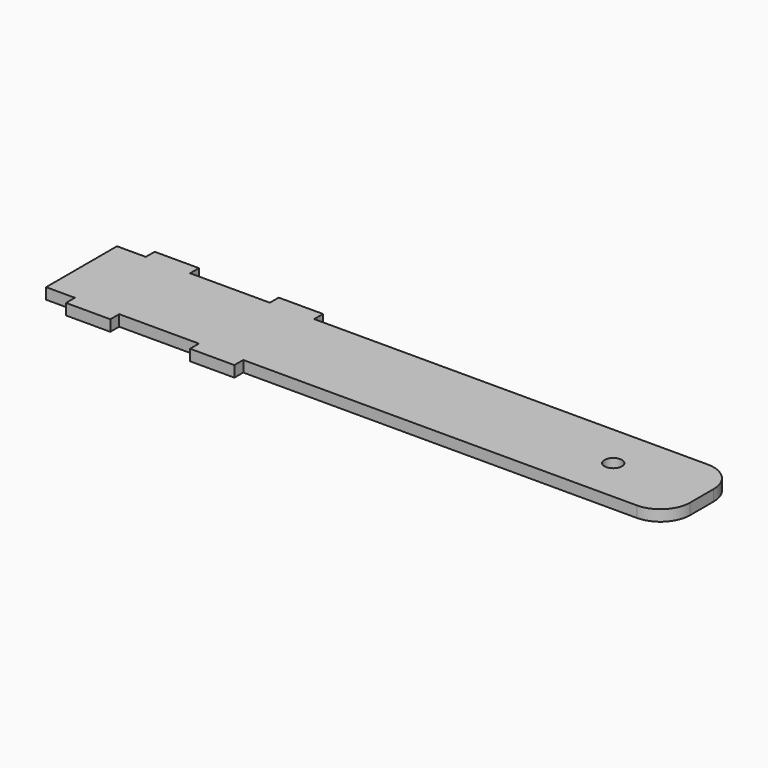
from build123d import *

# Parameters (mm, degrees)
F0_R     = 2.5
F1_DEPTH = 3.175


with BuildPart() as f1:
    # F0 (on Top) → F1 (new body)
    with BuildSketch(Plane.XY):
        with BuildLine():
            Line((-69.85, 12.7), (-76.2, 12.7))
            Line((-76.2, 12.7), (-76.2, -12.7))
            Line((-76.2, -12.7), (-69.85, -12.7))
            Line((-69.85, -12.7), (-67.945, -12.7))
            Line((-67.945, -12.7), (-67.945, -15.875))
            Line((-67.945, -15.875), (-55.245, -15.875))
            Line((-55.245, -15.875), (-55.245, -12.7))
            Line((-55.245, -12.7), (-53.34, -12.7))
            Line((-53.34, -12.7), (-34.29, -12.7))
            Line((-34.29, -12.7), (-32.385, -12.7))
            Line((-32.385, -12.7), (-32.385, -15.875))
            Line((-32.385, -15.875), (-19.685, -15.875))
            Line((-19.685, -15.875), (-19.685, -12.7))
            Line((-19.685, -12.7), (62.480263, -12.7))
            Line((62.480263, -12.7), (63.47136, -12.7))
            Line((63.47136, -12.7), (88.92864, -12.7))
            Line((88.92864, -12.7), (89.919737, -12.7))
            Line((89.919737, -12.7), (93.133333, -12.7))
            ThreePointArc((93.133333, -12.7), (99.120171, -10.220171), (101.6, -4.233333))
            Line((101.6, -4.233333), (101.6, 4.233333))
            ThreePointArc((101.6, 4.233333), (99.120171, 10.220171), (93.133333, 12.7))
            Line((93.133333, 12.7), (76.2, 12.7))
            Line((76.2, 12.7), (-19.685, 12.7))
            Line((-19.685, 12.7), (-19.685, 15.875))
            Line((-19.685, 15.875), (-32.385, 15.875))
            Line((-32.385, 15.875), (-32.385, 12.7))
            Line((-32.385, 12.7), (-34.29, 12.7))
            Line((-34.29, 12.7), (-53.34, 12.7))
            Line((-53.34, 12.7), (-55.245, 12.7))
            Line((-55.245, 12.7), (-55.245, 15.875))
            Line((-55.245, 15.875), (-67.945, 15.875))
            Line((-67.945, 15.875), (-67.945, 12.7))
            Line((-67.945, 12.7), (-69.85, 12.7))
        make_face()
        with Locations((76.2, 0)):
            Circle(F0_R, mode=Mode.SUBTRACT)
    extrude(amount=F1_DEPTH)


solid = f1.part
